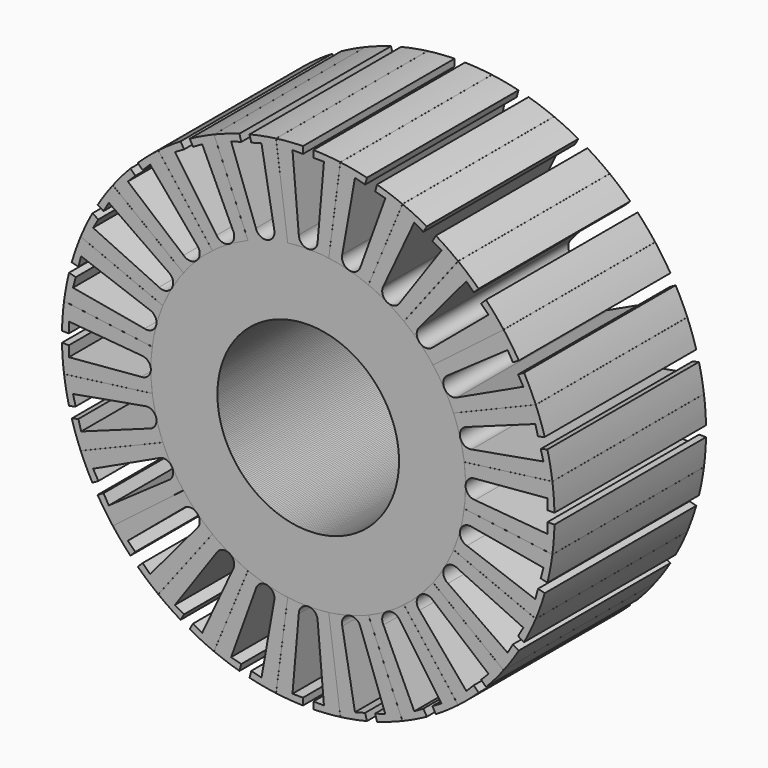
from build123d import *

# Parameters (mm, degrees)
F0_R     = 24
F1_DEPTH = 50
F2_COUNT = 24


with BuildPart() as f1:
    # F0 (on Front) → F1 (new body)
    with BuildSketch(Plane.XZ):
        with BuildLine():
            Line((-8.478372, 64.444683), (-5.417028, 41.175195))
            ThreePointArc((-5.417028, 41.175195), (0, -41.53), (5.417028, 41.175195))
            Line((5.417028, 41.175195), (8.478372, 64.444683))
            ThreePointArc((8.478372, 64.444683), (4.9341, 64.812458), (1.375, 64.985455))
            Line((1.375, 64.985455), (1.375, 63.16))
            Line((1.375, 63.16), (4.15, 63.16))
            Line((4.15, 63.16), (2.49, 44.02))
            ThreePointArc((2.49, 44.02), (0, 41.53), (-2.49, 44.02))
            Line((-2.49, 44.02), (-4.15, 63.16))
            Line((-4.15, 63.16), (-1.375, 63.16))
            Line((-1.375, 63.16), (-1.375, 64.985455))
            ThreePointArc((-1.375, 64.985455), (-4.9341, 64.812458), (-8.478372, 64.444683))
        make_face()
        Circle(F0_R, mode=Mode.SUBTRACT)
    extrude(amount=F1_DEPTH)


with BuildPart() as f2_1:
    # F2: instance of F1
    add(f1.part.rotate(Axis((0, 0, 0), (0, 1, 0)), 1 * 360 / F2_COUNT))


with BuildPart() as f2_2:
    # F2: instance of F1
    add(f1.part.rotate(Axis((0, 0, 0), (0, 1, 0)), 2 * 360 / F2_COUNT))


with BuildPart() as f2_3:
    # F2: instance of F1
    add(f1.part.rotate(Axis((0, 0, 0), (0, 1, 0)), 3 * 360 / F2_COUNT))


with BuildPart() as f2_4:
    # F2: instance of F1
    add(f1.part.rotate(Axis((0, 0, 0), (0, 1, 0)), 4 * 360 / F2_COUNT))


with BuildPart() as f2_5:
    # F2: instance of F1
    add(f1.part.rotate(Axis((0, 0, 0), (0, 1, 0)), 5 * 360 / F2_COUNT))


with BuildPart() as f2_6:
    # F2: instance of F1
    add(f1.part.rotate(Axis((0, 0, 0), (0, 1, 0)), 6 * 360 / F2_COUNT))


with BuildPart() as f2_7:
    # F2: instance of F1
    add(f1.part.rotate(Axis((0, 0, 0), (0, 1, 0)), 7 * 360 / F2_COUNT))


with BuildPart() as f2_8:
    # F2: instance of F1
    add(f1.part.rotate(Axis((0, 0, 0), (0, 1, 0)), 8 * 360 / F2_COUNT))


with BuildPart() as f2_9:
    # F2: instance of F1
    add(f1.part.rotate(Axis((0, 0, 0), (0, 1, 0)), 9 * 360 / F2_COUNT))


with BuildPart() as f2_10:
    # F2: instance of F1
    add(f1.part.rotate(Axis((0, 0, 0), (0, 1, 0)), 10 * 360 / F2_COUNT))


with BuildPart() as f2_11:
    # F2: instance of F1
    add(f1.part.rotate(Axis((0, 0, 0), (0, 1, 0)), 11 * 360 / F2_COUNT))


with BuildPart() as f2_12:
    # F2: instance of F1
    add(f1.part.rotate(Axis((0, 0, 0), (0, 1, 0)), 12 * 360 / F2_COUNT))


with BuildPart() as f2_13:
    # F2: instance of F1
    add(f1.part.rotate(Axis((0, 0, 0), (0, 1, 0)), 13 * 360 / F2_COUNT))


with BuildPart() as f2_14:
    # F2: instance of F1
    add(f1.part.rotate(Axis((0, 0, 0), (0, 1, 0)), 14 * 360 / F2_COUNT))


with BuildPart() as f2_15:
    # F2: instance of F1
    add(f1.part.rotate(Axis((0, 0, 0), (0, 1, 0)), 15 * 360 / F2_COUNT))


with BuildPart() as f2_16:
    # F2: instance of F1
    add(f1.part.rotate(Axis((0, 0, 0), (0, 1, 0)), 16 * 360 / F2_COUNT))


with BuildPart() as f2_17:
    # F2: instance of F1
    add(f1.part.rotate(Axis((0, 0, 0), (0, 1, 0)), 17 * 360 / F2_COUNT))


with BuildPart() as f2_18:
    # F2: instance of F1
    add(f1.part.rotate(Axis((0, 0, 0), (0, 1, 0)), 18 * 360 / F2_COUNT))


with BuildPart() as f2_19:
    # F2: instance of F1
    add(f1.part.rotate(Axis((0, 0, 0), (0, 1, 0)), 19 * 360 / F2_COUNT))


with BuildPart() as f2_20:
    # F2: instance of F1
    add(f1.part.rotate(Axis((0, 0, 0), (0, 1, 0)), 20 * 360 / F2_COUNT))


with BuildPart() as f2_21:
    # F2: instance of F1
    add(f1.part.rotate(Axis((0, 0, 0), (0, 1, 0)), 21 * 360 / F2_COUNT))


with BuildPart() as f2_22:
    # F2: instance of F1
    add(f1.part.rotate(Axis((0, 0, 0), (0, 1, 0)), 22 * 360 / F2_COUNT))


with BuildPart() as f2_23:
    # F2: instance of F1
    add(f1.part.rotate(Axis((0, 0, 0), (0, 1, 0)), 23 * 360 / F2_COUNT))


solid = Compound([f1.part, f2_1.part, f2_2.part, f2_3.part, f2_4.part, f2_5.part, f2_6.part, f2_7.part, f2_8.part, f2_9.part, f2_10.part, f2_11.part, f2_12.part, f2_13.part, f2_14.part, f2_15.part, f2_16.part, f2_17.part, f2_18.part, f2_19.part, f2_20.part, f2_21.part, f2_22.part, f2_23.part])
